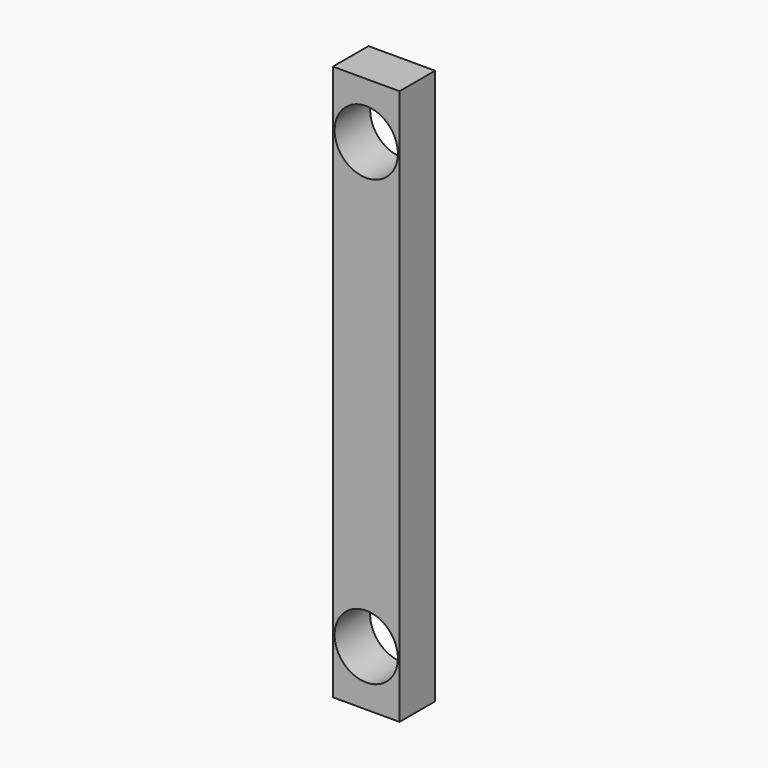
from build123d import *

# Parameters (mm, degrees)
F0_W     = 7.62
F0_H     = 63.5
F1_DEPTH = 5.08
F4_D     = 7.239
F5_D     = 7.239


with BuildPart() as f1:
    # F0 (on Front) → F1 (new body)
    with BuildSketch(Plane.XZ):
        with Locations((-3.7611387034, 22.9711361981)):
            Rectangle(F0_W, F0_H)
    extrude(amount=F1_DEPTH)

    # F4 (through all)
    with Locations(Plane.XZ.offset(5.08)):
        with Locations((-3.7611387034, 48.3711361981)):
            Hole(F4_D / 2)

    # F5 (through all)
    with Locations(Plane(origin=(0, 0, 0), x_dir=(1, 0, 0), z_dir=(0, 1, 0))):
        with Locations((-3.7611387034, 2.4288638019)):
            Hole(F5_D / 2)


solid = f1.part
